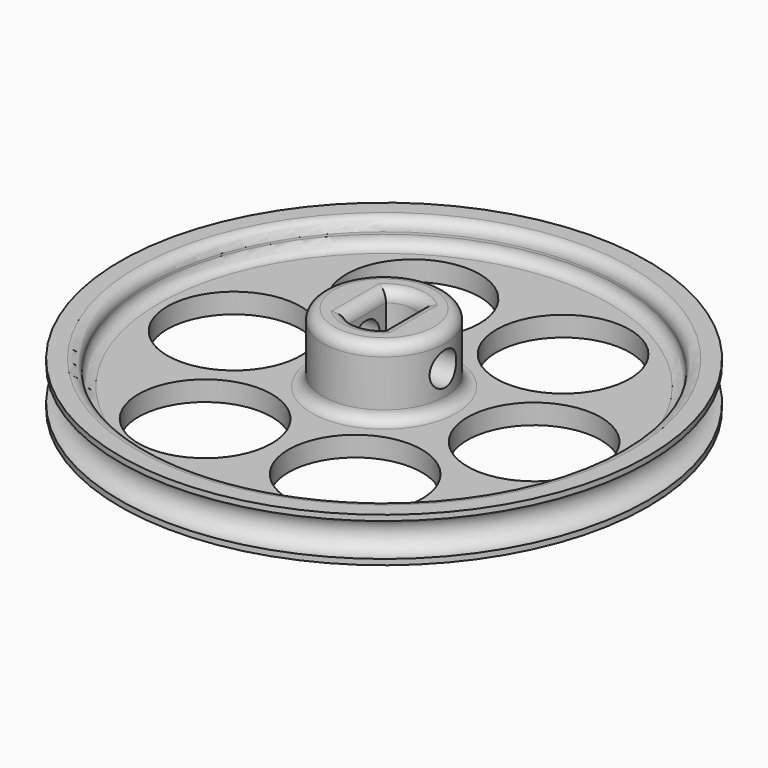
from build123d import *

# Parameters (mm, degrees)
CYLINDER004_R           = 6
CYLINDER004_DEPTH       = 20
ARRAY_COUNT             = 6
CYLINDER003_R           = 1.5
CYLINDER003_DEPTH       = 20
CYLINDER003_PITCH_ANGLE = 90
CYLINDER002_R           = 2.75
CYLINDER002_DEPTH       = 12
BOX_W                   = 3.25
BOX_H                   = 12
BOX_DEPTH               = 12
CYLINDER005_R           = 21.25
CYLINDER005_DEPTH       = 10
TORUS_R                 = 1.5
CYLINDER_R              = 23.75
CYLINDER_DEPTH          = 4
CYLINDER001_R           = 5.5
CYLINDER001_DEPTH       = 8
FILLET_R                = 1
FILLET002_R             = 1
FILLET003_R             = 1
FILLET004_R             = 1
FILLET005_R             = 1


with BuildPart() as array:
    # Cylinder004 → Cylinder004 (new body)
    with BuildSketch(Plane(origin=(13.5, 0, 0), x_dir=(1, 0, 0), z_dir=(0, 0, 1))):
        Circle(CYLINDER004_R)
    extrude(amount=CYLINDER004_DEPTH)

    # Array: Array ×6 about axis
    array_axis = Axis((0, 0, 0), (0, 0, 1))


with BuildPart() as array_1:
    add(array.part)
    for i in range(1, ARRAY_COUNT):
        add(array.part.rotate(array_axis, i * 360 / ARRAY_COUNT))


with BuildPart() as setscrew:
    # Cylinder003 → Cylinder003 (new body)
    with BuildSketch(Plane.XY):
        Circle(CYLINDER003_R)
    extrude(amount=CYLINDER003_DEPTH)


with BuildPart() as setscrew_1:
    # Cylinder003 pitch: moved
    add(setscrew.part.rotate(Axis((0, 0, 0), (0, 1, 0)), CYLINDER003_PITCH_ANGLE))


with BuildPart() as setscrew_2:
    # Cylinder003 placement: moved
    add(setscrew_1.part.moved(Location((-10, 0, 5))))


with BuildPart() as cylinder001:
    # Cylinder002 → Cylinder002 (new body)
    with BuildSketch(Plane.XY):
        Circle(CYLINDER002_R)
    extrude(amount=CYLINDER002_DEPTH)


with BuildPart() as shaft:
    # Box → Box (new body)
    with BuildSketch(Plane(origin=(-1.6125, -6, 0), x_dir=(1, 0, 0), z_dir=(0, 0, 1))):
        with Locations((1.625, 6)):
            Rectangle(BOX_W, BOX_H)
    extrude(amount=BOX_DEPTH)

    # Common: intersect Cylinder001
    add(cylinder001.part, mode=Mode.INTERSECT)


with BuildPart() as cylinder002:
    # Cylinder005 → Cylinder005 (new body)
    with BuildSketch(Plane.XY.offset(1.8)):
        Circle(CYLINDER005_R)
    extrude(amount=CYLINDER005_DEPTH)


with BuildPart() as torus:
    # Torus → Torus (revolve)
    with BuildSketch(Plane(origin=(0, 0, 2), x_dir=(1, 0, 0), z_dir=(0, -1, 0))):
        with Locations((23.75, 0)):
            Circle(TORUS_R)
    revolve(axis=Axis((0, 0, 2), (0, 0, 1)))


with BuildPart() as cut002:
    # Cylinder → Cylinder (new body)
    with BuildSketch(Plane.XY):
        Circle(CYLINDER_R)
    extrude(amount=CYLINDER_DEPTH)

    # Cut: cut Torus
    add(torus.part, mode=Mode.SUBTRACT)

    # Cut002: cut Cylinder002
    add(cylinder002.part, mode=Mode.SUBTRACT)


with BuildPart() as fillet005:
    # Cylinder001 → Cylinder001 (new body)
    with BuildSketch(Plane.XY):
        Circle(CYLINDER001_R)
    extrude(amount=CYLINDER001_DEPTH)

    # Fusion: union Cut002
    add(cut002.part)

    # Cut003: cut shaft
    add(shaft.part, mode=Mode.SUBTRACT)

    # Cut004: cut setscrew
    add(setscrew_2.part, mode=Mode.SUBTRACT)

    # Cut005: cut Array
    add(array_1.part, mode=Mode.SUBTRACT)

    # Fillet
    fillet_edges = [fillet005.edges().sort_by_distance(p)[0] for p in [
        (-1.6125, 0, 8),
        (0.015495, 2.749956, 8),
        (1.6375, 0, 8),
        (0.015495, -2.749956, 8),
    ]]
    fillet(fillet_edges, radius=FILLET_R)

    # Fillet002
    fillet002_edges = [fillet005.edges().sort_by_distance(p)[0] for p in [
        (-21.25, 0, 1.8),
    ]]
    fillet(fillet002_edges, radius=FILLET002_R)

    # Fillet003
    fillet003_edges = [fillet005.edges().sort_by_distance(p)[0] for p in [
        (-21.25, 0, 4),
    ]]
    fillet(fillet003_edges, radius=FILLET003_R)

    # Fillet004
    fillet004_edges = [fillet005.edges().sort_by_distance(p)[0] for p in [
        (-5.5, 0, 1.8),
    ]]
    fillet(fillet004_edges, radius=FILLET004_R)

    # Fillet005
    fillet005_edges = [fillet005.edges().sort_by_distance(p)[0] for p in [
        (-5.5, 0, 8),
    ]]
    fillet(fillet005_edges, radius=FILLET005_R)


solid = fillet005.part
